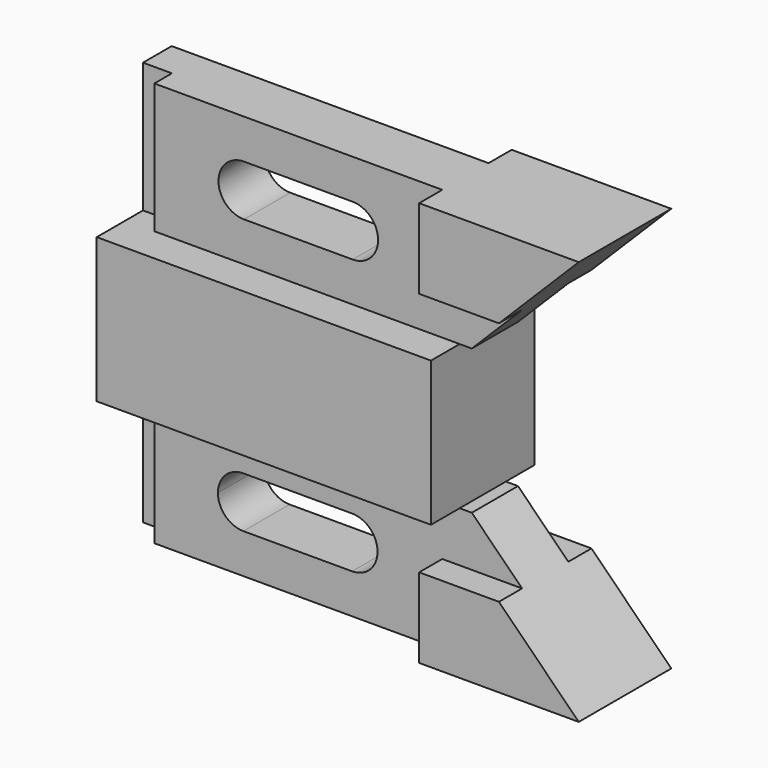
from build123d import *

# Parameters (mm, degrees)
F0_W      = 104.648
F0_H      = 31.75
F1_DEPTH  = 14.224
F0_H_2    = 28.575
F2_DEPTH  = 12.7
F4_W      = 69.596
F4_H      = 6.3613896862
F5_DEPTH  = 28.575
F3_W      = 69.596
F3_H      = 6.35
F6_DEPTH  = 28.575
F7_W      = 6.35
F7_H      = 11.049
F7_W_2    = 6.3613896862
F8_DEPTH  = 52.325
F9_W      = 31.242
F9_H      = 31.75
F10_DEPTH = 28.449
F12_DEPTH = 20.575
F14_DEPTH = 26.925
F16_DEPTH = 26.925
F18_DEPTH = 20.575
F21_DEPTH = 20.575
F22_DEPTH = 20.5636103138


with BuildPart() as f1:
    # F0 (on Front) → F1 (new body, symmetric)
    with BuildSketch(Plane.XZ):
        Rectangle(F0_W, F0_H)
    extrude(amount=F1_DEPTH, both=True)

    # F0 (on Front) → F2 (join, symmetric)
    with BuildSketch(Plane.XZ):
        with Locations((0, 30.1625)):
            Rectangle(F0_W, F0_H_2)
        with Locations((0, -30.1625)):
            Rectangle(F0_W, F0_H_2)
    extrude(amount=F2_DEPTH, both=True)

    # F4 (on face) → F5 (cut)
    with BuildSketch(Plane(origin=(0, 0, -44.45), x_dir=(1, 0, 0), z_dir=(0, 0, -1))):
        Polygon((17.272, 6.35), (17.272, 12.7), (-52.324, 12.7), (-52.324, 1.524), (-45.974, 1.524), (-45.974, 6.35), align=None)
        with Locations((-17.526, -9.5193051569)):
            Rectangle(F4_W, F4_H)
    extrude(amount=-F5_DEPTH, mode=Mode.SUBTRACT)

    # F3 (on face) → F6 (cut)
    with BuildSketch(Plane.XY.offset(44.45)):
        with Locations((-17.526, 9.525)):
            Rectangle(F3_W, F3_H)
        Polygon((-45.974, -1.524), (-52.324, -1.524), (-52.324, -12.7), (17.272, -12.7), (17.272, -6.35), (-45.974, -6.35), align=None)
    extrude(amount=-F6_DEPTH, mode=Mode.SUBTRACT)

    # F7 (on Right) → F8 (cut, through all)
    with BuildSketch(Plane.YZ):
        with Locations((-9.525, 21.3995)):
            Rectangle(F7_W, F7_H)
        with Locations((9.525, 21.3995)):
            Rectangle(F7_W, F7_H)
        with Locations((9.5193051569, -21.3995)):
            Rectangle(F7_W_2, F7_H)
        with Locations((-9.525, -21.3995)):
            Rectangle(F7_W, F7_H)
    extrude(amount=F8_DEPTH, mode=Mode.SUBTRACT)

    # F9 (on face) → F10 (cut, through all)
    with BuildSketch(Plane.XZ.offset(14.224)):
        with Locations((36.703, 0)):
            Rectangle(F9_W, F9_H)
    extrude(amount=-F10_DEPTH, mode=Mode.SUBTRACT)

    # F11 (on face) → F12 (cut, through all)
    with BuildSketch(Plane.XZ.offset(6.35)):
        Polygon((23.749, -15.875), (34.798, -26.924), (52.324, -26.924), (52.324, -15.875), align=None)
    extrude(amount=-F12_DEPTH, mode=Mode.SUBTRACT)

    # F13 (on face) → F14 (cut, through all)
    with BuildSketch(Plane.XZ.offset(12.7)):
        Polygon((34.798, -26.924), (52.324, -44.45), (52.324, -26.924), align=None)
    extrude(amount=-F14_DEPTH, mode=Mode.SUBTRACT)

    # F15 (on face) → F16 (cut, through all)
    with BuildSketch(Plane(origin=(0, 12.7, 0), x_dir=(-1, 0, 0), z_dir=(0, 1, 0))):
        Polygon((-34.798, 26.924), (-52.324, 44.45), (-52.324, 26.924), align=None)
    extrude(amount=-F16_DEPTH, mode=Mode.SUBTRACT)

    # F17 (on face) → F18 (cut, through all)
    with BuildSketch(Plane(origin=(0, 6.35, 0), x_dir=(-1, 0, 0), z_dir=(0, 1, 0))):
        Polygon((-23.749, 15.875), (-34.798, 26.924), (-52.324, 26.924), (-52.324, 15.875), align=None)
    extrude(amount=-F18_DEPTH, mode=Mode.SUBTRACT)

    # F20 (on face) → F21 (cut, through all)
    with BuildSketch(Plane.XZ.offset(6.35)):
        with BuildLine():
            ThreePointArc((-26.289, 24.5745), (-22.3376873067, 26.2111873067), (-20.701, 30.1625))
            ThreePointArc((-20.701, 30.1625), (-22.3376873067, 34.1138126933), (-26.289, 35.7505))
            ThreePointArc((-26.289, 35.7505), (-31.877, 30.1625), (-26.289, 24.5745))
        make_face()
        with BuildLine():
            ThreePointArc((-26.289, 35.7505), (-22.3376873067, 34.1138126933), (-20.701, 30.1625))
            ThreePointArc((-20.701, 30.1625), (-22.3376873067, 26.2111873067), (-26.289, 24.5745))
            Line((-26.289, 24.5745), (-2.413, 24.5745))
            ThreePointArc((-2.413, 24.5745), (-8.001, 30.1625), (-2.413, 35.7505))
            Line((-2.413, 35.7505), (-26.289, 35.7505))
        make_face()
        with BuildLine():
            ThreePointArc((3.175, 30.1625), (1.5383126933, 34.1138126933), (-2.413, 35.7505))
            ThreePointArc((-2.413, 35.7505), (-8.001, 30.1625), (-2.413, 24.5745))
            ThreePointArc((-2.413, 24.5745), (1.5383126933, 26.2111873067), (3.175, 30.1625))
        make_face()
    extrude(amount=-F21_DEPTH, mode=Mode.SUBTRACT)

    # F19 (on face) → F22 (cut, through all)
    with BuildSketch(Plane(origin=(0, 6.3386103138, 0), x_dir=(-1, 0, 0), z_dir=(0, 1, 0))):
        with BuildLine():
            ThreePointArc((26.416, -35.7505), (30.3673126933, -34.1138126933), (32.004, -30.1625))
            ThreePointArc((32.004, -30.1625), (30.3673126933, -26.2111873067), (26.416, -24.5745))
            ThreePointArc((26.416, -24.5745), (20.828, -30.1625), (26.416, -35.7505))
        make_face()
        with BuildLine():
            ThreePointArc((26.416, -35.7505), (20.828, -30.1625), (26.416, -24.5745))
            Line((26.416, -24.5745), (2.54, -24.5745))
            ThreePointArc((2.54, -24.5745), (6.4913126933, -26.2111873067), (8.128, -30.1625))
            ThreePointArc((8.128, -30.1625), (6.4913126933, -34.1138126933), (2.54, -35.7505))
            Line((2.54, -35.7505), (26.416, -35.7505))
        make_face()
        with BuildLine():
            ThreePointArc((8.128, -30.1625), (6.4913126933, -26.2111873067), (2.54, -24.5745))
            ThreePointArc((2.54, -24.5745), (-3.048, -30.1625), (2.54, -35.7505))
            ThreePointArc((2.54, -35.7505), (6.4913126933, -34.1138126933), (8.128, -30.1625))
        make_face()
    extrude(amount=-F22_DEPTH, mode=Mode.SUBTRACT)


solid = f1.part
